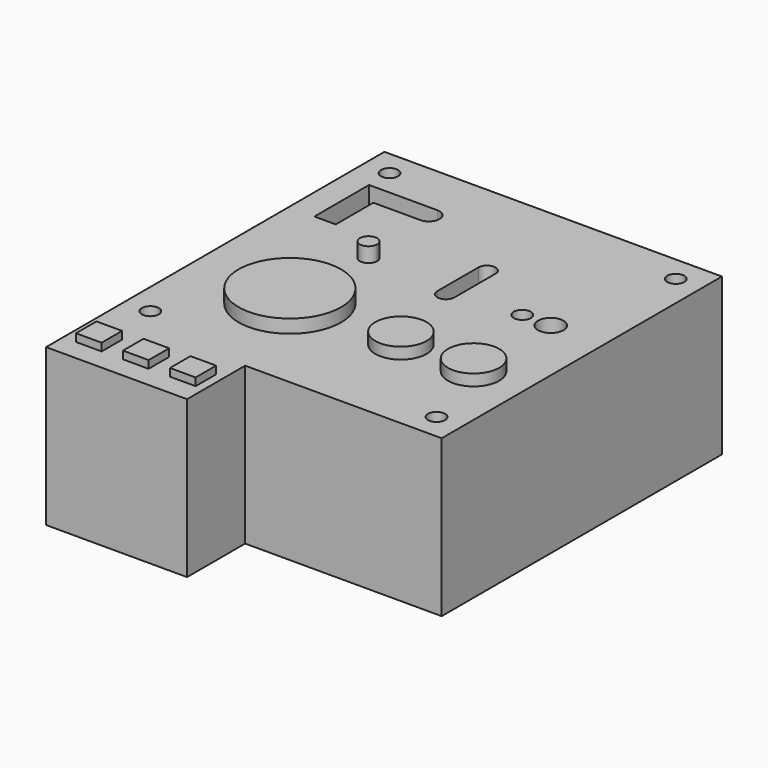
from build123d import *

# Parameters (mm, degrees)
F1_DEPTH  = 55
F2_R      = 3
F3_DEPTH  = 55.001
F4_R      = 18
F5_DEPTH  = 4.7
F6_R      = 9
F7_DEPTH  = 4
F9_DEPTH  = 55.001
F10_R     = 3
F10_R_2   = 4.5
F11_DEPTH = 55.001
F13_DEPTH = 10
F15_DEPTH = 5.2
F16_W     = 9
F16_H     = 9
F17_DEPTH = 2.7


with BuildPart() as f1:
    # F0 (on Top) → F1 (new body)
    with BuildSketch(Plane.XY):
        Polygon((61.611576, 15.259703), (-56.888424, 15.259703), (-56.888424, -133.240297), (-7.388424, -133.240297), (-7.388424, -107.740297), (61.611576, -107.740297), align=None)
    extrude(amount=F1_DEPTH)

    # F2 (on face) → F3 (cut, through all)
    with BuildSketch(Plane.XY.offset(55)):
        with Locations((-47.888424, -98.740297)):
            Circle(F2_R)
        with Locations((52.611576, -98.740297)):
            Circle(F2_R)
        with BuildLine():
            ThreePointArc((49.611576, 6.259703), (52.611576, 3.259703), (55.611576, 6.259703))
            ThreePointArc((55.611576, 6.259703), (52.611576, 9.259703), (49.611576, 6.259703))
        make_face()
        with Locations((-47.888424, 6.259703)):
            Circle(F2_R)
    extrude(amount=-F3_DEPTH, mode=Mode.SUBTRACT)

    # F4 (on face) → F5 (join)
    with BuildSketch(Plane.XY.offset(55)):
        with Locations((-20.888424, -71.240297)):
            Circle(F4_R)
    extrude(amount=F5_DEPTH)

    # F6 (on face) → F7 (join)
    with BuildSketch(Plane.XY.offset(55)):
        with Locations((18.111576, -71.240297)):
            Circle(F6_R)
        with Locations((43.611576, -71.240297)):
            Circle(F6_R)
    extrude(amount=F7_DEPTH)

    # F8 (on face) → F9 (cut, through all)
    with BuildSketch(Plane.XY.offset(55)):
        with BuildLine():
            Line((12.111576, -40.240297), (12.111576, -22.240297))
            ThreePointArc((12.111576, -22.240297), (9.111576, -19.240297), (6.111576, -22.240297))
            Line((6.111576, -22.240297), (6.111576, -40.240297))
            ThreePointArc((6.111576, -40.240297), (9.111576, -43.240297), (12.111576, -40.240297))
        make_face()
    extrude(amount=-F9_DEPTH, mode=Mode.SUBTRACT)

    # F10 (on face) → F11 (cut, through all)
    with BuildSketch(Plane.XY.offset(55)):
        with Locations((33.111576, -36.740297)):
            Circle(F10_R)
        with Locations((43.111576, -36.740297)):
            Circle(F10_R_2)
    extrude(amount=-F11_DEPTH, mode=Mode.SUBTRACT)

    # F12 (on face) → F13 (cut)
    with BuildSketch(Plane.XY.offset(55)):
        with BuildLine():
            Line((-23.888424, -2.740297), (-47.888424, -2.740297))
            Line((-47.888424, -2.740297), (-47.888424, -26.740297))
            Line((-47.888424, -26.740297), (-40.388424, -26.740297))
            Line((-40.388424, -26.740297), (-40.388424, -10.240297))
            Line((-40.388424, -10.240297), (-23.888424, -10.240297))
            ThreePointArc((-23.888424, -10.240297), (-20.138424, -6.490297), (-23.888424, -2.740297))
        make_face()
    extrude(amount=-F13_DEPTH, mode=Mode.SUBTRACT)

    # F14 (on face) → F15 (join)
    with BuildSketch(Plane.XY.offset(55)):
        with BuildLine():
            ThreePointArc((-20.888424, -33.740297), (-23.009744, -38.861618), (-17.888424, -36.740297))
            ThreePointArc((-17.888424, -36.740297), (-18.767104, -34.618977), (-20.888424, -33.740297))
        make_face()
    extrude(amount=F15_DEPTH)

    # F16 (on face) → F17 (join)
    with BuildSketch(Plane.XY.offset(55)):
        with Locations((-47.888424, -121.240297)):
            Rectangle(F16_W, F16_H)
        with Locations((-31.388424, -121.240297)):
            Rectangle(F16_W, F16_H)
        with Locations((-14.888424, -121.240297)):
            Rectangle(F16_W, F16_H)
    extrude(amount=F17_DEPTH)


solid = f1.part
